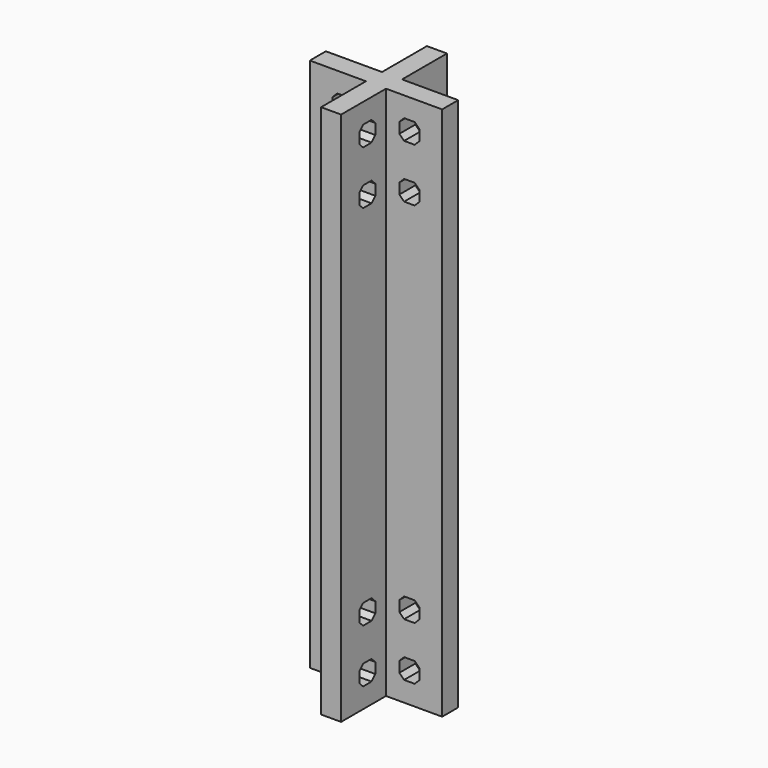
from build123d import *

# Parameters (mm, degrees)
PAD038_DEPTH    = 80
POCKET025_DEPTH = 11.4010000384
POCKET026_DEPTH = 11.4010366708


with BuildPart() as part:
    # Sketch063 (on Face65 of Binder012) → Pad038 (new body)
    with BuildSketch(Plane.XY.offset(9.8)):
        Polygon((-93.5396103068, 82.1395919522), (-85.1396103452, 82.1395919522), (-85.1396103452, 73.7395919906), (-82.1396102684, 73.7395919906), (-82.1396102684, 82.1395919522), (-73.7396103068, 82.1396286614), (-73.7396103068, 85.1396286614), (-82.1396102684, 85.1396286614), (-82.1396103452, 93.539628623), (-85.1396103452, 93.539628623), (-85.1396103452, 85.1396286614), (-93.5396103068, 85.1396286614), align=None)
    extrude(amount=PAD038_DEPTH)

    # Sketch064 (on Face2 of Pad038) → Pocket025 (cut, through all)
    with BuildSketch(Plane(origin=(-85.1396103452, 0, 0), x_dir=(0, -1, 0), z_dir=(-1, 0, 0))):
        Polygon((-87.1396286614, 13.5071067812), (-87.1396286614, 15.0928932188), (-87.8467354426, 15.8), (-89.4325218802, 15.8), (-90.1396286614, 15.0928932188), (-90.1396286614, 13.5071067812), (-89.4325218802, 12.8), (-87.8467354426, 12.8), align=None)
        Polygon((-79.432485171, 12.8), (-77.8466987333, 12.8), (-77.1395919522, 13.5071067812), (-77.1395919522, 15.0928932188), (-77.8466987333, 15.8), (-79.432485171, 15.8), (-80.1395919522, 15.0928932188), (-80.1395919522, 13.5071067812), align=None)
        Polygon((-89.4325218802, 20.8), (-87.8467354426, 20.8), (-87.1396286614, 21.5071067812), (-87.1396286614, 23.0928932188), (-87.8467354426, 23.8), (-89.4325218802, 23.8), (-90.1396286614, 23.0928932188), (-90.1396286614, 21.5071067812), align=None)
        Polygon((-79.432485171, 20.8), (-77.8466987333, 20.8), (-77.1395919522, 21.5071067812), (-77.1395919522, 23.0928932188), (-77.8466987333, 23.8), (-79.432485171, 23.8), (-80.1395919522, 23.0928932188), (-80.1395919522, 21.5071067812), align=None)
        Polygon((-90.1396286614, 86.0928932188), (-90.1396286614, 84.5071067812), (-89.4325218802, 83.8), (-87.8467354426, 83.8), (-87.1396286614, 84.5071067812), (-87.1396286614, 86.0928932188), (-87.8467354426, 86.8), (-89.4325218802, 86.8), align=None)
        Polygon((-80.1395919522, 86.0928932188), (-80.1395919522, 84.5071067812), (-79.432485171, 83.8), (-77.8466987333, 83.8), (-77.1395919522, 84.5071067812), (-77.1395919522, 86.0928932188), (-77.8466987333, 86.8), (-79.432485171, 86.8), align=None)
        Polygon((-90.1396286614, 78.0928932188), (-90.1396286614, 76.5071067812), (-89.4325218802, 75.8), (-87.8467354426, 75.8), (-87.1396286614, 76.5071067812), (-87.1396286614, 78.0928932188), (-87.8467354426, 78.8), (-89.4325218802, 78.8), align=None)
        Polygon((-80.1395919522, 78.0928932188), (-80.1395919522, 76.5071067812), (-79.432485171, 75.8), (-77.8466987333, 75.8), (-77.1395919522, 76.5071067812), (-77.1395919522, 78.0928932188), (-77.8466987333, 78.8), (-79.432485171, 78.8), align=None)
    extrude(amount=-POCKET025_DEPTH, mode=Mode.SUBTRACT)

    # Sketch065 (on Face6 of Pocket025) → Pocket026 (cut, through all)
    with BuildSketch(Plane(origin=(0, 85.1396286614, 0), x_dir=(-1, 0, 0), z_dir=(0, 1, 0))):
        Polygon((87.1396103452, 15.0928932188), (87.1396103452, 13.5071067812), (87.8467171264, 12.8), (89.432503564, 12.8), (90.1396103452, 13.5071067812), (90.1396103452, 15.0928932188), (89.432503564, 15.8), (87.8467171264, 15.8), align=None)
        Polygon((87.1396103452, 23.0928932188), (87.1396103452, 21.5071067812), (87.8467171264, 20.8), (89.432503564, 20.8), (90.1396103452, 21.5071067812), (90.1396103452, 23.0928932188), (89.432503564, 23.8), (87.8467171264, 23.8), align=None)
        Polygon((79.4325034872, 15.8), (77.8467170496, 15.8), (77.1396102684, 15.0928932188), (77.1396102684, 13.5071067812), (77.8467170496, 12.8), (79.4325034872, 12.8), (80.1396102684, 13.5071067812), (80.1396102684, 15.0928932188), align=None)
        Polygon((79.4325034872, 23.8), (77.8467170496, 23.8), (77.1396102684, 23.0928932188), (77.1396102684, 21.5071067812), (77.8467170496, 20.8), (79.4325034872, 20.8), (80.1396102684, 21.5071067812), (80.1396102684, 23.0928932188), align=None)
        Polygon((77.1396102684, 86.0928932188), (77.1396102684, 84.5071067812), (77.8467170496, 83.8), (79.4325034872, 83.8), (80.1396102684, 84.5071067812), (80.1396102684, 86.0928932188), (79.4325034872, 86.8), (77.8467170496, 86.8), align=None)
        Polygon((87.1396103452, 86.0928932188), (87.1396103452, 84.5071067812), (87.8467171264, 83.8), (89.432503564, 83.8), (90.1396103452, 84.5071067812), (90.1396103452, 86.0928932188), (89.432503564, 86.8), (87.8467171264, 86.8), align=None)
        Polygon((77.1396102684, 78.0928932188), (77.1396102684, 76.5071067812), (77.8467170496, 75.8), (79.4325034872, 75.8), (80.1396102684, 76.5071067812), (80.1396102684, 78.0928932188), (79.4325034872, 78.8), (77.8467170496, 78.8), align=None)
        Polygon((87.1396103452, 78.0928932188), (87.1396103452, 76.5071067812), (87.8467171264, 75.8), (89.432503564, 75.8), (90.1396103452, 76.5071067812), (90.1396103452, 78.0928932188), (89.432503564, 78.8), (87.8467171264, 78.8), align=None)
    extrude(amount=-POCKET026_DEPTH, mode=Mode.SUBTRACT)


solid = part.part
